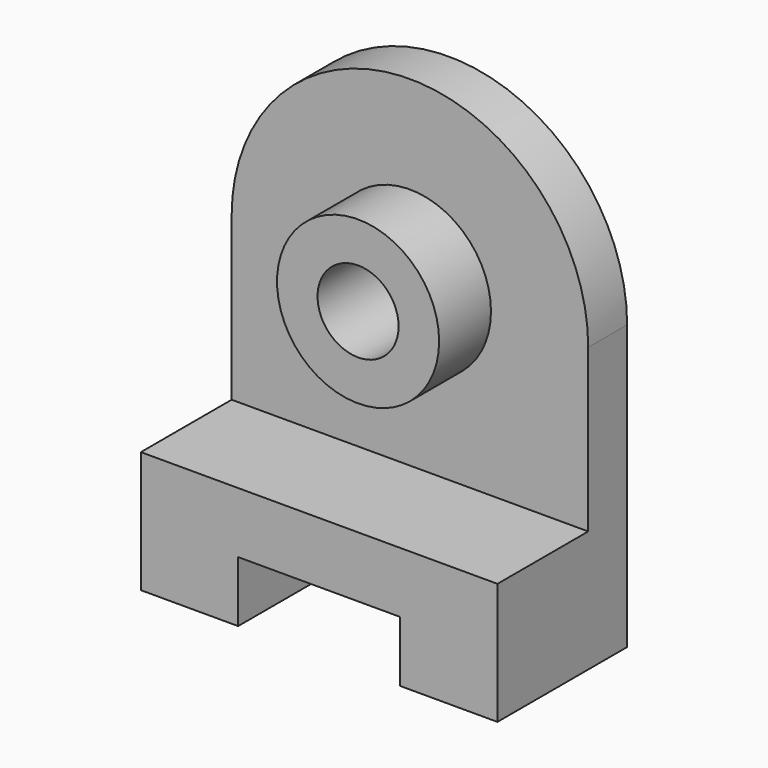
from build123d import *

# Parameters (mm, degrees)
F0_R     = 20
F0_R_2   = 10
F1_DEPTH = 28
F2_DEPTH = 40
F3_DEPTH = 12


with BuildPart() as f1:
    # F0 (on Front) → F1 (new body)
    with BuildSketch(Plane.XZ):
        with Locations((0, 28)):
            Circle(F0_R)
        with Locations((0, 28)):
            Circle(F0_R_2, mode=Mode.SUBTRACT)
    extrude(amount=F1_DEPTH)



with BuildPart() as f2:
    # F0 (on Front) → F2 (new body)
    with BuildSketch(Plane.XZ):
        Polygon((44, -12), (-44, -12), (-44, -42), (-20, -42), (-20, -27), (20, -27), (20, -42), (44, -42), align=None)
    extrude(amount=F2_DEPTH)


with BuildPart() as f1_1:
    add(f1.part)

    add(f2.part)  # F3 merges F2
    # F0 (on Front) → F3 (join)
    with BuildSketch(Plane.XZ):
        with BuildLine():
            Line((-44, 28), (-44, -12))
            Line((-44, -12), (44, -12))
            Line((44, -12), (44, 28))
            ThreePointArc((44, 28), (0, 72), (-44, 28))
        make_face()
        with Locations((0, 28)):
            Circle(F0_R, mode=Mode.SUBTRACT)
    extrude(amount=F3_DEPTH)


solid = f1_1.part
